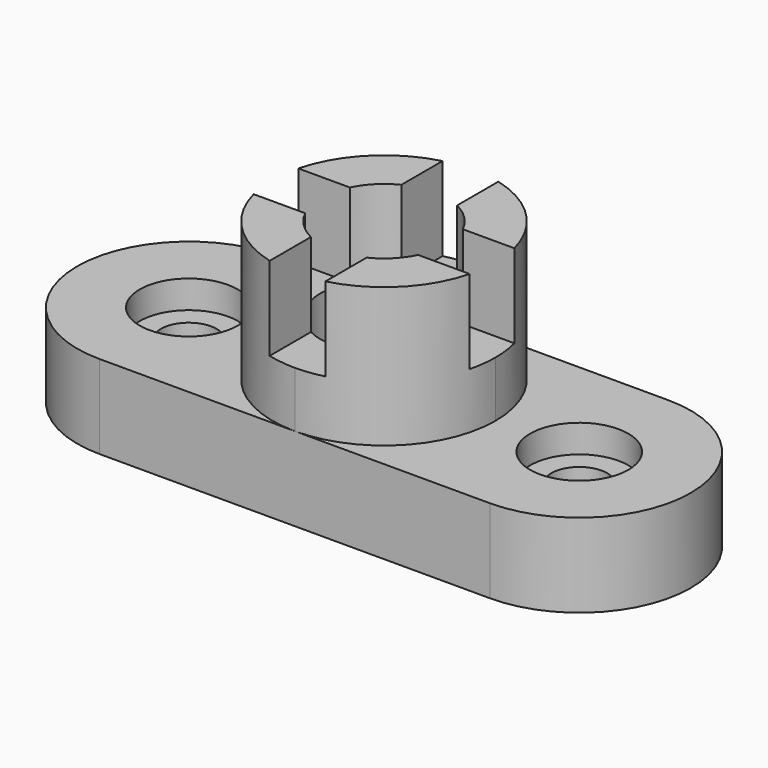
from build123d import *

# Parameters (mm, degrees)
F0_R     = 11.176
F0_R_2   = 6.35
F1_DEPTH = 19.05
F2_DEPTH = 6.35
F3_DEPTH = 31.75
F5_DEPTH = 19.05
F6_DEPTH = 50.8


with BuildPart() as f1:
    # F0 (on Top) → F1 (new body)
    with BuildSketch(Plane.XY):
        with BuildLine():
            ThreePointArc((-44.45, 25.4), (-69.85, 0), (-44.45, -25.4))
            Line((-44.45, -25.4), (2.63e-08, -25.4))
            ThreePointArc((2.63e-08, -25.4), (-25.4, -1.24e-08), (1.5e-09, 25.4))
            Line((1.5e-09, 25.4), (-44.45, 25.4))
        make_face()
        with Locations((-44.45, 0)):
            Circle(F0_R, mode=Mode.SUBTRACT)
        with BuildLine():
            ThreePointArc((25.4, 0), (17.9605122514, -17.9605122328), (2.63e-08, -25.4))
            Line((2.63e-08, -25.4), (44.45, -25.4))
            ThreePointArc((44.45, -25.4), (69.85, 0), (44.45, 25.4))
            Line((44.45, 25.4), (1.5e-09, 25.4))
            ThreePointArc((1.5e-09, 25.4), (17.9605122427, 17.9605122416), (25.4, 0))
        make_face()
        with Locations((44.45, 0)):
            Circle(F0_R, mode=Mode.SUBTRACT)
        with Locations((-44.45, 0)):
            Circle(F0_R)
        with Locations((-44.45, 0)):
            Circle(F0_R_2, mode=Mode.SUBTRACT)
        with Locations((44.45, 0)):
            Circle(F0_R)
        with Locations((44.45, 0)):
            Circle(F0_R_2, mode=Mode.SUBTRACT)
        with BuildLine():
            ThreePointArc((1.5e-09, 25.4), (-25.4, -1.24e-08), (2.63e-08, -25.4))
            ThreePointArc((2.63e-08, -25.4), (17.9605122514, -17.9605122328), (25.4, 0))
            ThreePointArc((25.4, 0), (17.9605122427, 17.9605122416), (1.5e-09, 25.4))
        make_face()
    extrude(amount=-F1_DEPTH)

    # F0 (on Top) → F2 (cut)
    with BuildSketch(Plane.XY):
        with Locations((-44.45, 0)):
            Circle(F0_R)
        with Locations((-44.45, 0)):
            Circle(F0_R_2, mode=Mode.SUBTRACT)
        with Locations((44.45, 0)):
            Circle(F0_R)
        with Locations((44.45, 0)):
            Circle(F0_R_2, mode=Mode.SUBTRACT)
    extrude(amount=-F2_DEPTH, mode=Mode.SUBTRACT)

    # F0 (on Top) → F3 (join)
    with BuildSketch(Plane.XY):
        with BuildLine():
            ThreePointArc((1.5e-09, 25.4), (-25.4, -1.24e-08), (2.63e-08, -25.4))
            ThreePointArc((2.63e-08, -25.4), (17.9605122514, -17.9605122328), (25.4, 0))
            ThreePointArc((25.4, 0), (17.9605122427, 17.9605122416), (1.5e-09, 25.4))
        make_face()
    extrude(amount=F3_DEPTH)

    # F4 (on face) → F5 (cut)
    with BuildSketch(Plane.XY.offset(31.75)):
        with BuildLine():
            Line((6.35, -24.5934442484), (6.35, -12.8696814646))
            ThreePointArc((6.35, -12.8696814646), (0, -14.351), (-6.35, -12.8696814646))
            Line((-6.35, -12.8696814646), (-6.35, -24.5934442484))
            ThreePointArc((-6.35, -24.5934442484), (0, -25.4), (6.35, -24.5934442484))
        make_face()
        with BuildLine():
            ThreePointArc((-12.8696814646, -6.35), (-14.351, 0), (-12.8696814646, 6.35))
            Line((-12.8696814646, 6.35), (-24.5934442484, 6.35))
            ThreePointArc((-24.5934442484, 6.35), (-25.4, 0), (-24.5934442484, -6.35))
            Line((-24.5934442484, -6.35), (-12.8696814646, -6.35))
        make_face()
        with BuildLine():
            ThreePointArc((-6.35, 12.8696814646), (0, 14.351), (6.35, 12.8696814646))
            Line((6.35, 12.8696814646), (6.35, 24.5934442484))
            ThreePointArc((6.35, 24.5934442484), (0, 25.4), (-6.35, 24.5934442484))
            Line((-6.35, 24.5934442484), (-6.35, 12.8696814646))
        make_face()
        with BuildLine():
            ThreePointArc((12.8696814646, 6.35), (13.9757647322, 3.260245566), (14.351, 0))
            ThreePointArc((14.351, 0), (13.9757647322, -3.260245566), (12.8696814646, -6.35))
            Line((12.8696814646, -6.35), (24.5934442484, -6.35))
            ThreePointArc((24.5934442484, -6.35), (25.1975542852, -3.2005090291), (25.4, 0))
            ThreePointArc((25.4, 0), (25.1975542852, 3.2005090291), (24.5934442484, 6.35))
            Line((24.5934442484, 6.35), (12.8696814646, 6.35))
        make_face()
    extrude(amount=-F5_DEPTH, mode=Mode.SUBTRACT)

    # F4 (on face) → F6 (cut, through all)
    with BuildSketch(Plane.XY.offset(31.75)):
        with BuildLine():
            ThreePointArc((12.8696814646, -6.35), (13.9757647322, -3.260245566), (14.351, 0))
            ThreePointArc((14.351, 0), (13.9757647322, 3.260245566), (12.8696814646, 6.35))
            ThreePointArc((12.8696814646, 6.35), (10.1476894168, 10.1476894168), (6.35, 12.8696814646))
            ThreePointArc((6.35, 12.8696814646), (0, 14.351), (-6.35, 12.8696814646))
            ThreePointArc((-6.35, 12.8696814646), (-10.1476894168, 10.1476894168), (-12.8696814646, 6.35))
            ThreePointArc((-12.8696814646, 6.35), (-14.351, 0), (-12.8696814646, -6.35))
            ThreePointArc((-12.8696814646, -6.35), (-10.1476894168, -10.1476894168), (-6.35, -12.8696814646))
            ThreePointArc((-6.35, -12.8696814646), (0, -14.351), (6.35, -12.8696814646))
            ThreePointArc((6.35, -12.8696814646), (10.1476894168, -10.1476894168), (12.8696814646, -6.35))
        make_face()
    extrude(amount=-F6_DEPTH, mode=Mode.SUBTRACT)


solid = f1.part
